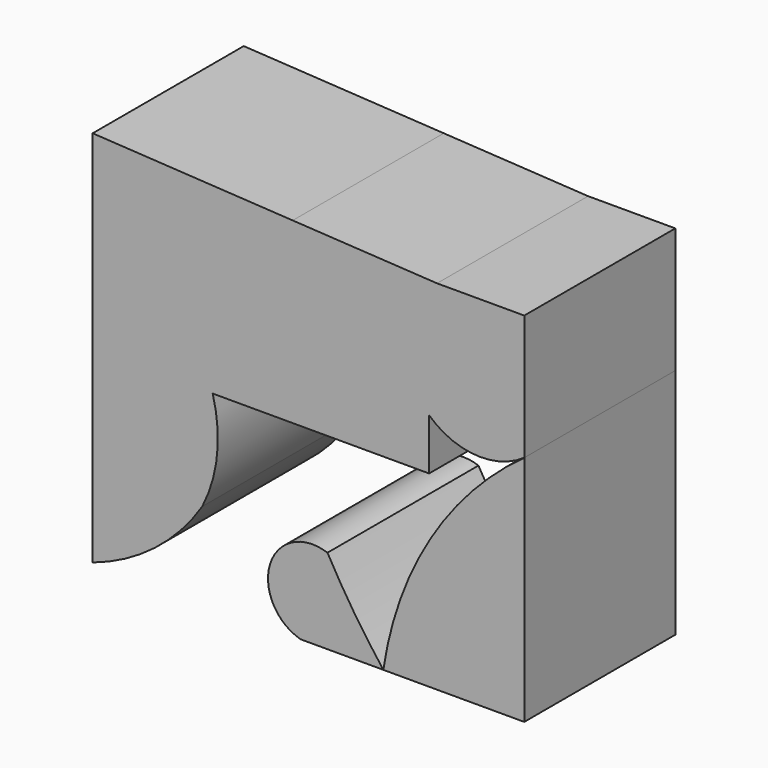
from build123d import *

# Parameters (mm, degrees)
F0_W     = 28.658034
F0_H     = 6.78888
F1_DEPTH = 25
F2_DEPTH = 25


with BuildPart() as f1:
    # F0 (on Front) → F1 (new body)
    with BuildSketch(Plane.XZ):
        with BuildLine():
            Line((-12.002667, 48.485121), (-38.486842, 50.032899))
            Line((-38.486842, 50.032899), (-38.486842, 0))
            ThreePointArc((-38.486842, 0), (-30.268185, 4.380184), (-23.980264, 11.250001))
            ThreePointArc((-23.980264, 11.250001), (-22.010741, 17.926434), (-22.598908, 24.862415))
            ThreePointArc((-22.598908, 24.862415), (-25.664537, 31.111871), (-30.789474, 35.822369))
            ThreePointArc((-30.789474, 35.822369), (-22.52899, 43.834576), (-12.002667, 48.485121))
        make_face()
        with BuildLine():
            Line((-10.953948, 0), (0, 0))
            ThreePointArc((0, 0), (-3.915254, 5.483819), (-7.401315, 11.250001))
            ThreePointArc((-7.401315, 11.250001), (-14.997984, 7.463007), (-10.953948, 0))
        make_face()
        with BuildLine():
            Line((18.657263, 0), (18.657263, 30.793621))
            ThreePointArc((18.657263, 30.793621), (6.212761, 17.284657), (0, 0))
            Line((0, 0), (18.657263, 0))
        make_face()
        with BuildLine():
            Line((7.105264, 47.368422), (-12.002667, 48.485121))
            ThreePointArc((-12.002667, 48.485121), (-22.52899, 43.834576), (-30.789474, 35.822369))
            ThreePointArc((-30.789474, 35.822369), (-25.664537, 31.111871), (-22.598908, 24.862415))
            Line((-22.598908, 24.862415), (-22.598908, 31.651295))
            Line((-22.598908, 31.651295), (6.059126, 31.651295))
            ThreePointArc((6.059126, 31.651295), (2.814444, 39.760642), (7.105264, 47.368422))
        make_face()
        with BuildLine():
            Line((18.657263, 47.368422), (7.105264, 47.368422))
            ThreePointArc((7.105264, 47.368422), (2.814444, 39.760642), (6.059126, 31.651295))
            ThreePointArc((6.059126, 31.651295), (12.207669, 29.011431), (18.657263, 30.793621))
            Line((18.657263, 30.793621), (18.657263, 47.368422))
        make_face()
        with Locations((-8.269891, 28.256855)):
            Rectangle(F0_W, F0_H)
    extrude(amount=F1_DEPTH)


with BuildPart() as f2:
    # F0 (on Front) → F2 (new body)
    with BuildSketch(Plane.XZ):
        with BuildLine():
            Line((-12.002667, 48.485121), (-38.486842, 50.032899))
            Line((-38.486842, 50.032899), (-38.486842, 0))
            ThreePointArc((-38.486842, 0), (-30.268185, 4.380184), (-23.980264, 11.250001))
            ThreePointArc((-23.980264, 11.250001), (-22.010741, 17.926434), (-22.598908, 24.862415))
            ThreePointArc((-22.598908, 24.862415), (-25.664537, 31.111871), (-30.789474, 35.822369))
            ThreePointArc((-30.789474, 35.822369), (-22.52899, 43.834576), (-12.002667, 48.485121))
        make_face()
        with BuildLine():
            Line((-10.953948, 0), (0, 0))
            ThreePointArc((0, 0), (-3.915254, 5.483819), (-7.401315, 11.250001))
            ThreePointArc((-7.401315, 11.250001), (-14.997984, 7.463007), (-10.953948, 0))
        make_face()
        with BuildLine():
            Line((18.657263, 0), (18.657263, 30.793621))
            ThreePointArc((18.657263, 30.793621), (6.212761, 17.284657), (0, 0))
            Line((0, 0), (18.657263, 0))
        make_face()
        with BuildLine():
            Line((7.105264, 47.368422), (-12.002667, 48.485121))
            ThreePointArc((-12.002667, 48.485121), (-22.52899, 43.834576), (-30.789474, 35.822369))
            ThreePointArc((-30.789474, 35.822369), (-25.664537, 31.111871), (-22.598908, 24.862415))
            Line((-22.598908, 24.862415), (-22.598908, 31.651295))
            Line((-22.598908, 31.651295), (6.059126, 31.651295))
            ThreePointArc((6.059126, 31.651295), (2.814444, 39.760642), (7.105264, 47.368422))
        make_face()
        with BuildLine():
            Line((18.657263, 47.368422), (7.105264, 47.368422))
            ThreePointArc((7.105264, 47.368422), (2.814444, 39.760642), (6.059126, 31.651295))
            ThreePointArc((6.059126, 31.651295), (12.207669, 29.011431), (18.657263, 30.793621))
            Line((18.657263, 30.793621), (18.657263, 47.368422))
        make_face()
        with Locations((-8.269891, 28.256855)):
            Rectangle(F0_W, F0_H)
    extrude(amount=F2_DEPTH)


solid = Compound([f1.part, f2.part])
